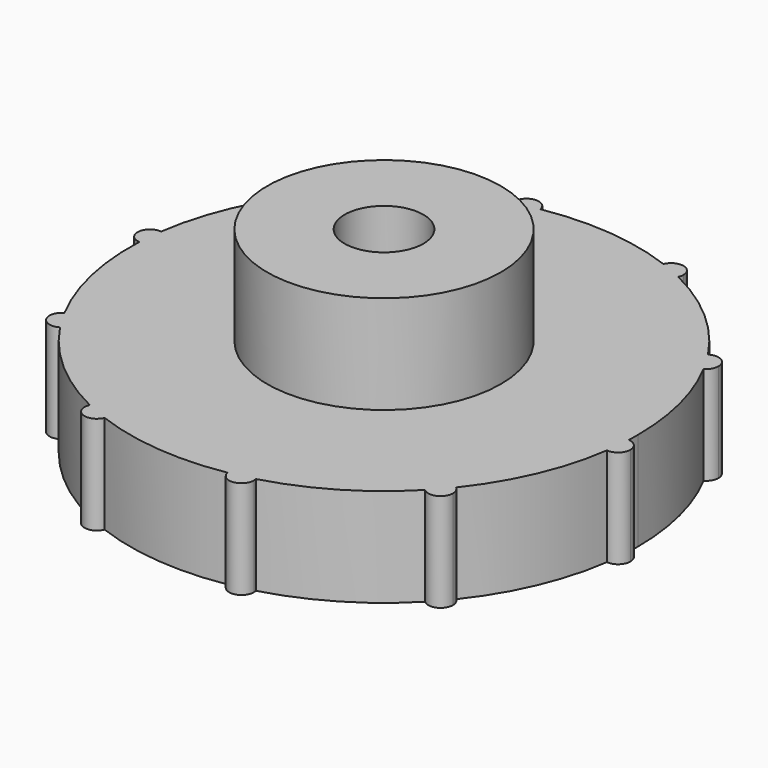
from build123d import *

# Parameters (mm, degrees)
F1_DEPTH = 8
F2_R     = 9.5
F2_R_2   = 3.2
F3_DEPTH = 8
F4_W     = 0.682370679
F4_H     = 6.463566795
F5_DEPTH = 2


with BuildPart() as f1:
    # F0 (on Top) → F1 (new body)
    with BuildSketch(Plane.XY):
        with BuildLine():
            ThreePointArc((20.6296333293, -0.9169125905), (20.6449077044, -0.4585693786), (20.65, 0))
            ThreePointArc((20.65, 0), (20.0407277838, 4.9791294317), (18.2488639325, 9.6644433453))
            ThreePointArc((18.2488639325, 9.6644433453), (16.899563072, 10.0263287386), (17.228671645, 11.3839963699))
            ThreePointArc((17.228671645, 11.3839963699), (13.6343948602, 15.5088934743), (9.0830237721, 18.5451120017))
            ThreePointArc((9.0830237721, 18.5451120017), (7.7787055485, 18.0447842877), (7.2469429653, 19.3366056395))
            ThreePointArc((7.2469429653, 19.3366056395), (1.9145582783, 20.5610546081), (-3.5522227527, 20.34217819))
            ThreePointArc((-3.5522227527, 20.34217819), (-3.537714089, 20.2447444729), (-3.5328621738, 20.1463560108))
            ThreePointArc((-3.5328621738, 20.1463560108), (-4.4104069619, 19.1538819703), (-5.5028716159, 19.9032887729))
            ThreePointArc((-5.5028716159, 19.9032887729), (-10.5365744934, 17.7595917167), (-14.83064092, 14.3692237056))
            ThreePointArc((-14.83064092, 14.3692237056), (-14.5928551239, 14.0354855032), (-14.5088934877, 13.634394845))
            ThreePointArc((-14.5088934877, 13.634394845), (-15.0857403153, 12.7283366831), (-16.1507762731, 12.8675920738))
            ThreePointArc((-16.1507762731, 12.8675920738), (-18.9630939126, 8.1745684449), (-20.4442583125, 2.9077142313))
            ThreePointArc((-20.4442583125, 2.9077142313), (-19.813794176, 2.5790896437), (-19.5610546025, 1.9145583389))
            ThreePointArc((-19.5610546025, 1.9145583389), (-19.8786246519, 1.1836073402), (-20.6296333275, 0.916912631))
            ThreePointArc((-20.6296333275, 0.916912631), (-20.1463560242, -4.5328621144), (-18.2488639515, -9.6644433094))
            ThreePointArc((-18.2488639515, -9.6644433094), (-17.2542563165, -9.6736514422), (-16.7595917478, -10.536574441))
            ThreePointArc((-16.7595917478, -10.536574441), (-16.8846860156, -11.020867699), (-17.2286716673, -11.383996336))
            ThreePointArc((-17.2286716673, -11.383996336), (-13.6343948907, -15.5088934475), (-9.0830238086, -18.5451119838))
            ThreePointArc((-9.0830238086, -18.5451119838), (-7.9606237803, -17.9862481273), (-7.1745684636, -18.9630939046))
            ThreePointArc((-7.1745684636, -18.9630939046), (-7.1928288188, -19.1533234235), (-7.2469430033, -19.3366056253))
            ThreePointArc((-7.2469430033, -19.3366056253), (-1.9145583187, -20.5610546044), (3.5522227127, -20.342178197))
            ThreePointArc((3.5522227127, -20.342178197), (4.313353072, -19.1707455587), (5.5028715768, -19.9032887837))
            ThreePointArc((5.5028715768, -19.9032887837), (10.5365744585, -17.7595917375), (14.8306408918, -14.3692237348))
            ThreePointArc((14.8306408918, -14.3692237348), (14.7578574579, -12.9741336224), (16.1507762478, -12.8675921056))
            ThreePointArc((16.1507762478, -12.8675921056), (18.9630939126, -8.1745684449), (20.4442583182, -2.9077141911))
            ThreePointArc((20.4442583182, -2.9077141911), (19.5653618893, -1.8218436109), (20.6296333293, -0.9169125905))
        make_face()
        with BuildLine():
            ThreePointArc((17.228671645, 11.3839963699), (16.899563072, 10.0263287386), (18.2488639325, 9.6644433453))
            ThreePointArc((18.2488639325, 9.6644433453), (17.7595917271, 10.5365744759), (17.228671645, 11.3839963699))
        make_face()
        with BuildLine():
            ThreePointArc((17.228671645, 11.3839963699), (17.7595917271, 10.5365744759), (18.2488639325, 9.6644433453))
            ThreePointArc((18.2488639325, 9.6644433453), (18.6225147264, 10.0312390454), (18.7595917271, 10.5365744759))
            ThreePointArc((18.7595917271, 10.5365744759), (18.2438849843, 11.4114802086), (17.228671645, 11.3839963699))
        make_face()
        with BuildLine():
            ThreePointArc((21.5610546063, -1.9145582985), (21.2920056043, -1.2321283472), (20.6296333293, -0.9169125905))
            ThreePointArc((20.6296333293, -0.9169125905), (20.5610546063, -1.9145582985), (20.4442583182, -2.9077141911))
            ThreePointArc((20.4442583182, -2.9077141911), (21.2255859118, -2.6618187243), (21.5610546063, -1.9145582985))
        make_face()
        with BuildLine():
            ThreePointArc((20.4442583182, -2.9077141911), (20.5610546063, -1.9145582985), (20.6296333293, -0.9169125905))
            ThreePointArc((20.6296333293, -0.9169125905), (19.5653618893, -1.8218436109), (20.4442583182, -2.9077141911))
        make_face()
        with BuildLine():
            ThreePointArc((7.2469429653, 19.3366056395), (7.7787055485, 18.0447842877), (9.0830237721, 18.5451120017))
            ThreePointArc((9.0830237721, 18.5451120017), (8.1745684263, 18.9630939207), (7.2469429653, 19.3366056395))
        make_face()
        with BuildLine():
            ThreePointArc((7.2469429653, 19.3366056395), (8.1745684263, 18.9630939207), (9.0830237721, 18.5451120017))
            ThreePointArc((9.0830237721, 18.5451120017), (9.1514142038, 18.7491492384), (9.1745684263, 18.9630939207))
            ThreePointArc((9.1745684263, 18.9630939207), (8.3647979443, 19.9448335656), (7.2469429653, 19.3366056395))
        make_face()
        with BuildLine():
            ThreePointArc((16.5088934609, -13.6343948754), (16.4149516232, -13.2112417039), (16.1507762478, -12.8675921056))
            ThreePointArc((16.1507762478, -12.8675921056), (15.5088934609, -13.6343948754), (14.8306408918, -14.3692237348))
            ThreePointArc((14.8306408918, -14.3692237348), (15.9099841183, -14.5504332396), (16.5088934609, -13.6343948754))
        make_face()
        with BuildLine():
            ThreePointArc((14.8306408918, -14.3692237348), (15.5088934609, -13.6343948754), (16.1507762478, -12.8675921056))
            ThreePointArc((16.1507762478, -12.8675921056), (14.7578574579, -12.9741336224), (14.8306408918, -14.3692237348))
        make_face()
        with BuildLine():
            ThreePointArc((-3.5328621738, 20.1463560108), (-3.537714089, 20.2447444729), (-3.5522227527, 20.34217819))
            ThreePointArc((-3.5522227527, 20.34217819), (-4.5328621738, 20.1463560108), (-5.5028716159, 19.9032887729))
            ThreePointArc((-5.5028716159, 19.9032887729), (-4.4104069619, 19.1538819703), (-3.5328621738, 20.1463560108))
        make_face()
        with BuildLine():
            ThreePointArc((-5.5028716159, 19.9032887729), (-4.5328621738, 20.1463560108), (-3.5522227527, 20.34217819))
            ThreePointArc((-3.5522227527, 20.34217819), (-4.7523712379, 21.1219664714), (-5.5028716159, 19.9032887729))
        make_face()
        with BuildLine():
            ThreePointArc((5.5328621342, -20.1463560197), (5.5253361748, -20.0239008088), (5.5028715768, -19.9032887837))
            ThreePointArc((5.5028715768, -19.9032887837), (4.5328621342, -20.1463560197), (3.5522227127, -20.342178197))
            ThreePointArc((3.5522227127, -20.342178197), (4.6312505953, -21.1415041045), (5.5328621342, -20.1463560197))
        make_face()
        with BuildLine():
            ThreePointArc((3.5522227127, -20.342178197), (4.5328621342, -20.1463560197), (5.5028715768, -19.9032887837))
            ThreePointArc((5.5028715768, -19.9032887837), (4.313353072, -19.1707455587), (3.5522227127, -20.342178197))
        make_face()
        with BuildLine():
            ThreePointArc((-14.5088934877, 13.634394845), (-14.5928551239, 14.0354855032), (-14.83064092, 14.3692237056))
            ThreePointArc((-14.83064092, 14.3692237056), (-15.5088934877, 13.634394845), (-16.1507762731, 12.8675920738))
            ThreePointArc((-16.1507762731, 12.8675920738), (-15.0857403153, 12.7283366831), (-14.5088934877, 13.634394845))
        make_face()
        with BuildLine():
            ThreePointArc((-16.1507762731, 12.8675920738), (-15.5088934877, 13.634394845), (-14.83064092, 14.3692237056))
            ThreePointArc((-14.83064092, 14.3692237056), (-16.2599294919, 14.2946560965), (-16.1507762731, 12.8675920738))
        make_face()
        with BuildLine():
            ThreePointArc((-9.0830238086, -18.5451119838), (-8.5704313432, -19.8814035368), (-7.2469430033, -19.3366056253))
            ThreePointArc((-7.2469430033, -19.3366056253), (-8.1745684636, -18.9630939046), (-9.0830238086, -18.5451119838))
        make_face()
        with BuildLine():
            ThreePointArc((-9.0830238086, -18.5451119838), (-8.1745684636, -18.9630939046), (-7.2469430033, -19.3366056253))
            ThreePointArc((-7.2469430033, -19.3366056253), (-7.1928288188, -19.1533234235), (-7.1745684636, -18.9630939046))
            ThreePointArc((-7.1745684636, -18.9630939046), (-7.9606237803, -17.9862481273), (-9.0830238086, -18.5451119838))
        make_face()
        with BuildLine():
            ThreePointArc((-19.5610546025, 1.9145583389), (-19.813794176, 2.5790896437), (-20.4442583125, 2.9077142313))
            ThreePointArc((-20.4442583125, 2.9077142313), (-20.5610546025, 1.9145583389), (-20.6296333275, 0.916912631))
            ThreePointArc((-20.6296333275, 0.916912631), (-19.8786246519, 1.1836073402), (-19.5610546025, 1.9145583389))
        make_face()
        with BuildLine():
            ThreePointArc((-20.6296333275, 0.916912631), (-20.5610546025, 1.9145583389), (-20.4442583125, 2.9077142313))
            ThreePointArc((-20.4442583125, 2.9077142313), (-21.5567473193, 2.0072730284), (-20.6296333275, 0.916912631))
        make_face()
        with BuildLine():
            ThreePointArc((-18.2488639515, -9.6644433094), (-18.6196204039, -11.0468201767), (-17.2286716673, -11.383996336))
            ThreePointArc((-17.2286716673, -11.383996336), (-17.7595917478, -10.536574441), (-18.2488639515, -9.6644433094))
        make_face()
        with BuildLine():
            ThreePointArc((-18.2488639515, -9.6644433094), (-17.7595917478, -10.536574441), (-17.2286716673, -11.383996336))
            ThreePointArc((-17.2286716673, -11.383996336), (-16.8846860156, -11.020867699), (-16.7595917478, -10.536574441))
            ThreePointArc((-16.7595917478, -10.536574441), (-17.2542563165, -9.6736514422), (-18.2488639515, -9.6644433094))
        make_face()
    extrude(amount=F1_DEPTH)

    # F2 (on face) → F3 (join)
    with BuildSketch(Plane.XY.offset(8)):
        Circle(F2_R)
        Circle(F2_R_2, mode=Mode.SUBTRACT)
    extrude(amount=F3_DEPTH)

    # F4 (on face) → F5 (join)
    with BuildSketch(Plane.XY.offset(8)):
        with Locations((-0.0285869173, -0.0104163773)):
            Rectangle(F4_W, F4_H)
    extrude(amount=F5_DEPTH)


solid = f1.part
